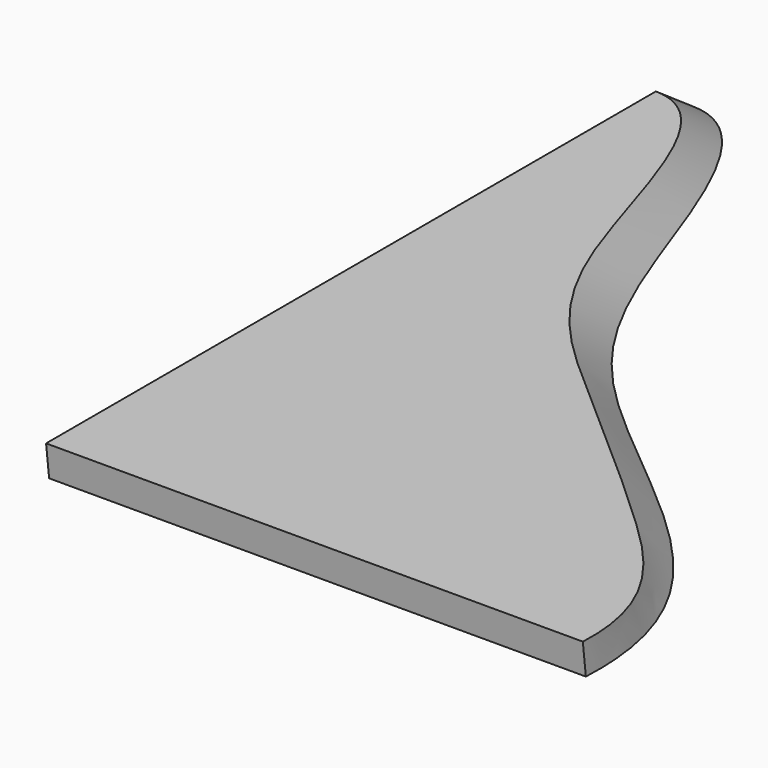
from build123d import *


with BuildPart() as f3:
    # F2 (on offset) → F3 section 0
    with BuildSketch(Plane.XY.offset(30)):
        with BuildLine():
            add(Edge.make_bspline(
                [(-0.1162387403, 706.6202394108), (67.4090522033, 705.6834769882), (107.2661289591, 438.020544732), (246.5610397169, 315.1667553195), (405.6256243164, 177.2614096598), (504.0652454594, 79.0606592582), (499.8837612597, -3.3797605892)],
                knots=[0, 0, 0, 0, 0.2755811825, 0.516939296, 0.759145849, 1, 1, 1, 1], degree=3))
            Line((-0.1162387403, 706.6202394108), (-0.1162387403, -3.3797605892))
            Line((-0.1162387403, -3.3797605892), (499.8837612597, -3.3797605892))
        make_face()
    # F0 (on Top) → F3 section 1
    with BuildSketch(Plane.XY):
        with BuildLine():
            add(Edge.make_bspline(
                [(0, 750), (64.3428056902, 749.1073874442), (132.0097294261, 510.7900491576), (220.5173538717, 356.6993132244), (440.8012196393, 205.9218274135), (504.165758207, 82.1303726551), (500, 0)],
                knots=[0, 0, 0, 0, 0.2625929667, 0.4989892363, 0.7600516687, 1, 1, 1, 1], degree=3))
            Line((0, 750), (0, 0))
            Line((0, 0), (500, 0))
        make_face()
    loft()


solid = f3.part
